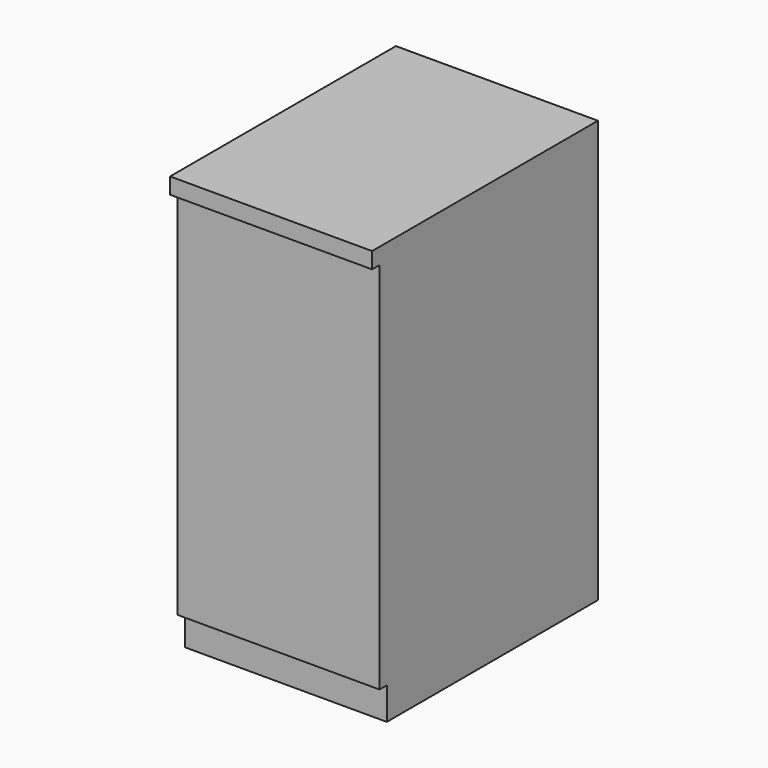
from build123d import *

# Parameters (mm, degrees)
F0_W     = 438
F0_H     = 612
F1_DEPTH = 915
F2_W     = 20
F2_H     = 880
F3_DEPTH = 438.001
F4_W     = 20
F4_H     = 70
F5_DEPTH = 438.001


with BuildPart() as f1:
    # F0 (on Top) → F1 (new body)
    with BuildSketch(Plane.XY):
        with Locations((-219, 306)):
            Rectangle(F0_W, F0_H)
    extrude(amount=F1_DEPTH)

    # F2 (on face) → F3 (cut, through all)
    with BuildSketch(Plane.YZ):
        with Locations((10, 440)):
            Rectangle(F2_W, F2_H)
    extrude(amount=-F3_DEPTH, mode=Mode.SUBTRACT)

    # F4 (on face) → F5 (cut, through all)
    with BuildSketch(Plane.YZ):
        with Locations((30, 35)):
            Rectangle(F4_W, F4_H)
    extrude(amount=-F5_DEPTH, mode=Mode.SUBTRACT)


solid = f1.part
